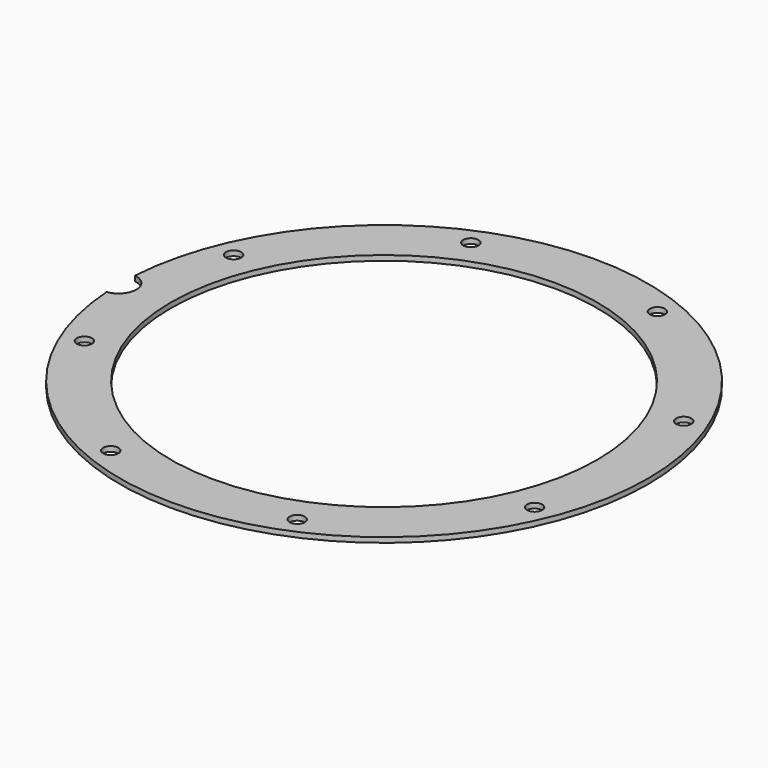
from build123d import *

# Parameters (mm, degrees)
CYLINDER345_R               = 3.5
CYLINDER345_DEPTH           = 20
CYLINDER339_R               = 1.5
CYLINDER339_DEPTH           = 10
CYLINDER339_PLACEMENT_ANGLE = 67.5
CYLINDER340_R               = 1.5
CYLINDER340_DEPTH           = 10
CYLINDER340_PLACEMENT_ANGLE = 112.5
CYLINDER343_R               = 1.5
CYLINDER343_DEPTH           = 10
CYLINDER343_PLACEMENT_ANGLE = 157.5
CYLINDER341_R               = 1.5
CYLINDER341_DEPTH           = 10
CYLINDER341_PLACEMENT_ANGLE = 202.5
CYLINDER338_R               = 1.5
CYLINDER338_DEPTH           = 10
CYLINDER338_PLACEMENT_ANGLE = 112.500001
CYLINDER344_R               = 1.5
CYLINDER344_DEPTH           = 10
CYLINDER344_PLACEMENT_ANGLE = 67.5
CYLINDER342_R               = 1.5
CYLINDER342_DEPTH           = 10
CYLINDER342_PLACEMENT_ANGLE = 22.5
CYLINDER337_R               = 1.5
CYLINDER337_DEPTH           = 10
CYLINDER337_PLACEMENT_ANGLE = 22.5
TUBE033_R                   = 52
TUBE033_R_2                 = 42
TUBE033_DEPTH               = 1


with BuildPart() as obj1:
    # Cylinder345 → Cylinder345 (new body)
    with BuildSketch(Plane(origin=(-52.3, 0, 29), x_dir=(1, 0, 0), z_dir=(0, 0, 1))):
        Circle(CYLINDER345_R)
    extrude(amount=CYLINDER345_DEPTH)


with BuildPart() as obj2:
    # Cylinder339 → Cylinder339 (new body)
    with BuildSketch(Plane.XY):
        Circle(CYLINDER339_R)
    extrude(amount=CYLINDER339_DEPTH)


with BuildPart() as obj2_1:
    # Cylinder339 placement: moved
    add(obj2.part.moved(Location((44.346218, -18.368805, 35.5))).rotate(Axis((44.346218, -18.368805, 35.5), (0, 0, 1)), CYLINDER339_PLACEMENT_ANGLE))


with BuildPart() as obj3:
    # Cylinder340 → Cylinder340 (new body)
    with BuildSketch(Plane.XY):
        Circle(CYLINDER340_R)
    extrude(amount=CYLINDER340_DEPTH)


with BuildPart() as obj3_1:
    # Cylinder340 placement: moved
    add(obj3.part.moved(Location((44.346218, 18.368805, 35.5))).rotate(Axis((44.346218, 18.368805, 35.5), (0, 0, 1)), CYLINDER340_PLACEMENT_ANGLE))


with BuildPart() as obj4:
    # Cylinder343 → Cylinder343 (new body)
    with BuildSketch(Plane.XY):
        Circle(CYLINDER343_R)
    extrude(amount=CYLINDER343_DEPTH)


with BuildPart() as obj4_1:
    # Cylinder343 placement: moved
    add(obj4.part.moved(Location((18.368805, 44.346218, 35.5))).rotate(Axis((18.368805, 44.346218, 35.5), (0, 0, 1)), CYLINDER343_PLACEMENT_ANGLE))


with BuildPart() as obj5:
    # Cylinder341 → Cylinder341 (new body)
    with BuildSketch(Plane.XY):
        Circle(CYLINDER341_R)
    extrude(amount=CYLINDER341_DEPTH)


with BuildPart() as obj5_1:
    # Cylinder341 placement: moved
    add(obj5.part.moved(Location((-18.368805, 44.346218, 35.5))).rotate(Axis((-18.368805, 44.346218, 35.5), (0, 0, 1)), CYLINDER341_PLACEMENT_ANGLE))


with BuildPart() as obj6:
    # Cylinder338 → Cylinder338 (new body)
    with BuildSketch(Plane.XY):
        Circle(CYLINDER338_R)
    extrude(amount=CYLINDER338_DEPTH)


with BuildPart() as obj6_1:
    # Cylinder338 placement: moved
    add(obj6.part.moved(Location((-44.346218, 18.368805, 35.5))).rotate(Axis((-44.346218, 18.368805, 35.5), (0, 0, -1)), CYLINDER338_PLACEMENT_ANGLE))


with BuildPart() as obj7:
    # Cylinder344 → Cylinder344 (new body)
    with BuildSketch(Plane.XY):
        Circle(CYLINDER344_R)
    extrude(amount=CYLINDER344_DEPTH)


with BuildPart() as obj7_1:
    # Cylinder344 placement: moved
    add(obj7.part.moved(Location((-44.346218, -18.368805, 35.5))).rotate(Axis((-44.346218, -18.368805, 35.5), (0, 0, -1)), CYLINDER344_PLACEMENT_ANGLE))


with BuildPart() as obj8:
    # Cylinder342 → Cylinder342 (new body)
    with BuildSketch(Plane.XY):
        Circle(CYLINDER342_R)
    extrude(amount=CYLINDER342_DEPTH)


with BuildPart() as obj8_1:
    # Cylinder342 placement: moved
    add(obj8.part.moved(Location((-18.368805, -44.346218, 35.5))).rotate(Axis((-18.368805, -44.346218, 35.5), (0, 0, -1)), CYLINDER342_PLACEMENT_ANGLE))


with BuildPart() as compound253:
    # Cylinder337 → Cylinder337 (new body)
    with BuildSketch(Plane.XY):
        Circle(CYLINDER337_R)
    extrude(amount=CYLINDER337_DEPTH)


with BuildPart() as compound253_1:
    # Cylinder337 placement: moved
    add(compound253.part.moved(Location((18.368805, -44.346218, 35.5))).rotate(Axis((18.368805, -44.346218, 35.5), (0, 0, 1)), CYLINDER337_PLACEMENT_ANGLE))

    # Compound253: union obj2, obj3, obj4, obj5, obj6, obj7, obj8
    add(obj2_1.part)
    add(obj3_1.part)
    add(obj4_1.part)
    add(obj5_1.part)
    add(obj6_1.part)
    add(obj7_1.part)
    add(obj8_1.part)


with BuildPart() as compound253_2:
    # Compound253 placement: moved
    add(compound253_1.part.moved(Location((0, 0, -2))))


with BuildPart() as cut143:
    # Tube033 → Tube033 (new body)
    with BuildSketch(Plane.XY.offset(37)):
        Circle(TUBE033_R)
        Circle(TUBE033_R_2, mode=Mode.SUBTRACT)
    extrude(amount=TUBE033_DEPTH)

    # Cut142: cut Compound253
    add(compound253_2.part, mode=Mode.SUBTRACT)

    # Cut143: cut obj1
    add(obj1.part, mode=Mode.SUBTRACT)


solid = cut143.part
